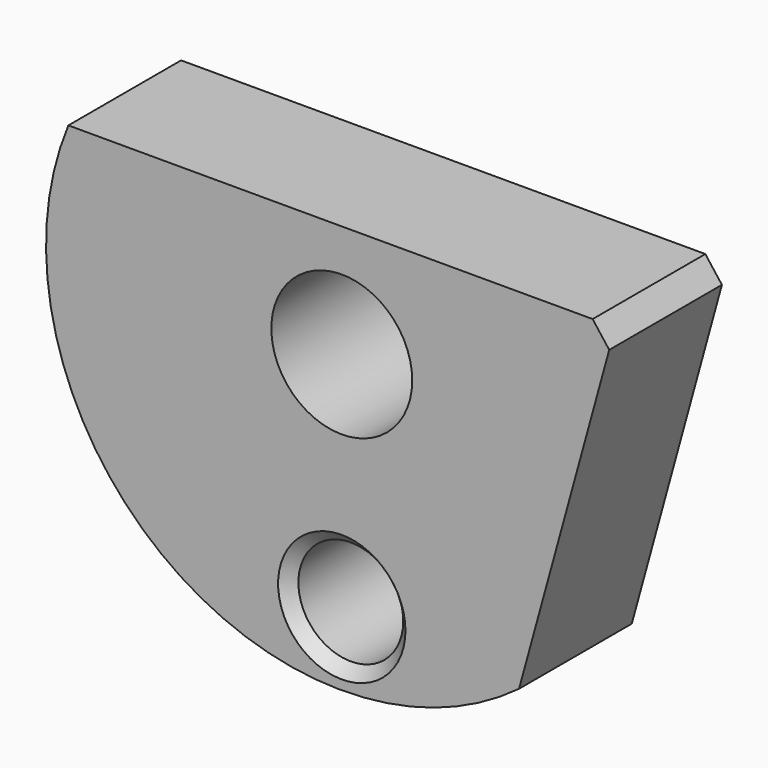
from build123d import *

# Parameters (mm, degrees)
F0_R     = 1.1811
F0_R_2   = 1.5875
F1_DEPTH = 1.5875
F2_SIZE2 = 0.254
F2_SIZE  = 0.254
F3_SIZE  = 0.508


with BuildPart() as f1:
    # F0 (on Front) → F1 (new body, symmetric)
    with BuildSketch(Plane.XZ):
        with BuildLine():
            Line((5.750813, 4.094138), (-6.573008, 4.094138))
            ThreePointArc((-6.573008, 4.094138), (-4.49461, -3.713278), (3.584436, -3.780322))
            Line((3.584436, -3.780322), (5.750813, 4.094138))
        make_face()
        with Locations((-0.411098, -3.459583)):
            Circle(F0_R, mode=Mode.SUBTRACT)
        with Locations((-0.411098, 1.554138)):
            Circle(F0_R_2, mode=Mode.SUBTRACT)
    extrude(amount=F1_DEPTH, both=True)

    # F2
    f2_edges = [f1.edges().sort_by_distance(p)[0] for p in [
        (-1.592198, -1.5875, -3.459583),
    ]]
    chamfer(f2_edges, length=F2_SIZE, length2=F2_SIZE2)

    # F3
    f3_edges = [f1.edges().sort_by_distance(p)[0] for p in [
        (5.750813, 0, 4.094138),
    ]]
    chamfer(f3_edges, length=F3_SIZE)


solid = f1.part
